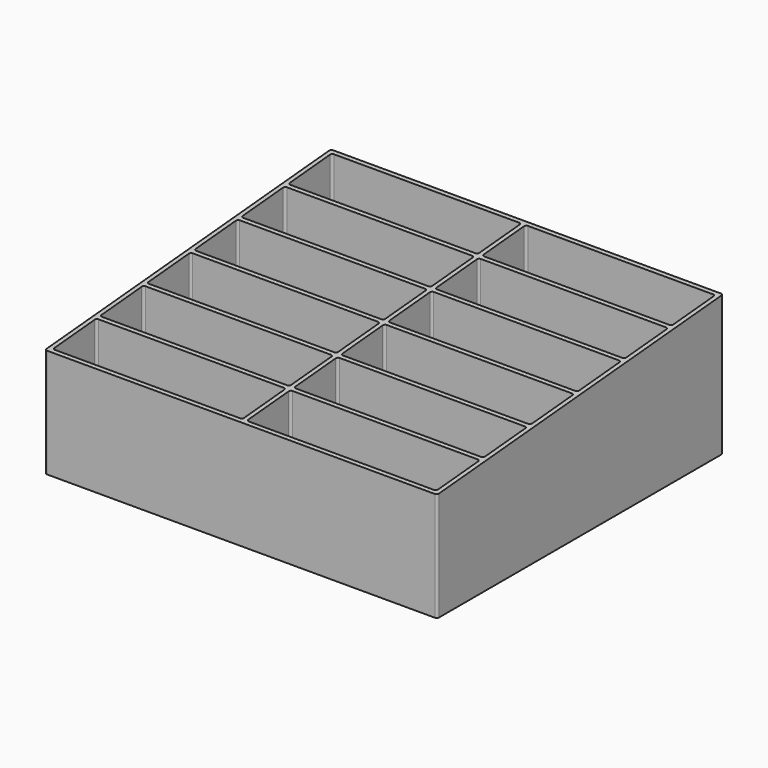
from build123d import *

# Parameters (mm, degrees)
PAD_DEPTH    = 65
POCKET_DEPTH = 180.001
SKETCH002_W  = 37
SKETCH002_H  = 164
PAD001_DEPTH = 3


with BuildPart() as part:
    # Sketch → Pad (new body)
    with BuildSketch(Plane.XY):
        with BuildLine():
            ThreePointArc((1, 164), (0.292893, 163.707107), (0, 163))
            Line((0, 1), (0, 163))
            ThreePointArc((0, 1), (0.292893, 0.292893), (1, 0))
            Line((179, 0), (1, 0))
            ThreePointArc((179, 0), (179.707107, 0.292893), (180, 1))
            Line((180, 1), (180, 163))
            ThreePointArc((180, 163), (179.707107, 163.707107), (179, 164))
            Line((179, 164), (1, 164))
        make_face()
        with BuildLine():
            ThreePointArc((3, 27), (2.292893, 26.707107), (2, 26))
            Line((2, 3), (2, 26))
            ThreePointArc((2, 3), (2.292893, 2.292893), (3, 2))
            Line((3, 2), (88, 2))
            ThreePointArc((88, 2), (88.707107, 2.292893), (89, 3))
            Line((89, 3), (89, 26))
            ThreePointArc((89, 26), (88.707107, 26.707107), (88, 27))
            Line((3, 27), (88, 27))
        make_face(mode=Mode.SUBTRACT)
        with BuildLine():
            ThreePointArc((2, 30), (2.292893, 29.292893), (3, 29))
            Line((3, 29), (88, 29))
            ThreePointArc((88, 29), (88.707107, 29.292893), (89, 30))
            Line((89, 53), (89, 30))
            ThreePointArc((89, 53), (88.707107, 53.707107), (88, 54))
            Line((3, 54), (88, 54))
            ThreePointArc((3, 54), (2.292893, 53.707107), (2, 53))
            Line((2, 53), (2, 30))
        make_face(mode=Mode.SUBTRACT)
        with BuildLine():
            ThreePointArc((2, 84), (2.292893, 83.292893), (3, 83))
            Line((3, 83), (88, 83))
            ThreePointArc((88, 83), (88.707107, 83.292893), (89, 84))
            Line((89, 107), (89, 84))
            ThreePointArc((89, 107), (88.707107, 107.707107), (88, 108))
            Line((3, 108), (88, 108))
            ThreePointArc((3, 108), (2.292893, 107.707107), (2, 107))
            Line((2, 107), (2, 84))
        make_face(mode=Mode.SUBTRACT)
        with BuildLine():
            ThreePointArc((3, 81), (2.292893, 80.707107), (2, 80))
            Line((2, 57), (2, 80))
            ThreePointArc((2, 57), (2.292893, 56.292893), (3, 56))
            Line((3, 56), (88, 56))
            ThreePointArc((88, 56), (88.707107, 56.292893), (89, 57))
            Line((89, 57), (89, 80))
            ThreePointArc((89, 80), (88.707107, 80.707107), (88, 81))
            Line((3, 81), (88, 81))
        make_face(mode=Mode.SUBTRACT)
        with BuildLine():
            ThreePointArc((3, 135), (2.292893, 134.707107), (2, 134))
            Line((2, 111), (2, 134))
            ThreePointArc((2, 111), (2.292893, 110.292893), (3, 110))
            Line((3, 110), (88, 110))
            ThreePointArc((88, 110), (88.707107, 110.292893), (89, 111))
            Line((89, 111), (89, 134))
            ThreePointArc((89, 134), (88.707107, 134.707107), (88, 135))
            Line((3, 135), (88, 135))
        make_face(mode=Mode.SUBTRACT)
        with BuildLine():
            ThreePointArc((2, 138), (2.292893, 137.292893), (3, 137))
            Line((3, 137), (88, 137))
            ThreePointArc((88, 137), (88.707107, 137.292893), (89, 138))
            Line((89, 161), (89, 138))
            ThreePointArc((89, 161), (88.707107, 161.707107), (88, 162))
            Line((3, 162), (88, 162))
            ThreePointArc((3, 162), (2.292893, 161.707107), (2, 161))
            Line((2, 161), (2, 138))
        make_face(mode=Mode.SUBTRACT)
        with BuildLine():
            ThreePointArc((178, 26), (177.707107, 26.707107), (177, 27))
            Line((177, 27), (92, 27))
            ThreePointArc((92, 27), (91.292893, 26.707107), (91, 26))
            Line((91, 3), (91, 26))
            ThreePointArc((91, 3), (91.292893, 2.292893), (92, 2))
            Line((177, 2), (92, 2))
            ThreePointArc((177, 2), (177.707107, 2.292893), (178, 3))
            Line((178, 3), (178, 26))
        make_face(mode=Mode.SUBTRACT)
        with BuildLine():
            ThreePointArc((177, 29), (177.707107, 29.292893), (178, 30))
            Line((178, 53), (178, 30))
            ThreePointArc((178, 53), (177.707107, 53.707107), (177, 54))
            Line((177, 54), (92, 54))
            ThreePointArc((92, 54), (91.292893, 53.707107), (91, 53))
            Line((91, 53), (91, 30))
            ThreePointArc((91, 30), (91.292893, 29.292893), (92, 29))
            Line((177, 29), (92, 29))
        make_face(mode=Mode.SUBTRACT)
        with BuildLine():
            ThreePointArc((177, 83), (177.707107, 83.292893), (178, 84))
            Line((178, 107), (178, 84))
            ThreePointArc((178, 107), (177.707107, 107.707107), (177, 108))
            Line((177, 108), (92, 108))
            ThreePointArc((92, 108), (91.292893, 107.707107), (91, 107))
            Line((91, 107), (91, 84))
            ThreePointArc((91, 84), (91.292893, 83.292893), (92, 83))
            Line((177, 83), (92, 83))
        make_face(mode=Mode.SUBTRACT)
        with BuildLine():
            ThreePointArc((178, 80), (177.707107, 80.707107), (177, 81))
            Line((177, 81), (92, 81))
            ThreePointArc((92, 81), (91.292893, 80.707107), (91, 80))
            Line((91, 57), (91, 80))
            ThreePointArc((91, 57), (91.292893, 56.292893), (92, 56))
            Line((177, 56), (92, 56))
            ThreePointArc((177, 56), (177.707107, 56.292893), (178, 57))
            Line((178, 57), (178, 80))
        make_face(mode=Mode.SUBTRACT)
        with BuildLine():
            ThreePointArc((178, 134), (177.707107, 134.707107), (177, 135))
            Line((177, 135), (92, 135))
            ThreePointArc((92, 135), (91.292893, 134.707107), (91, 134))
            Line((91, 111), (91, 134))
            ThreePointArc((91, 111), (91.292893, 110.292893), (92, 110))
            Line((177, 110), (92, 110))
            ThreePointArc((177, 110), (177.707107, 110.292893), (178, 111))
            Line((178, 111), (178, 134))
        make_face(mode=Mode.SUBTRACT)
        with BuildLine():
            ThreePointArc((177, 137), (177.707107, 137.292893), (178, 138))
            Line((178, 161), (178, 138))
            ThreePointArc((178, 161), (177.707107, 161.707107), (177, 162))
            Line((177, 162), (92, 162))
            ThreePointArc((92, 162), (91.292893, 161.707107), (91, 161))
            Line((91, 161), (91, 138))
            ThreePointArc((91, 138), (91.292893, 137.292893), (92, 137))
            Line((177, 137), (92, 137))
        make_face(mode=Mode.SUBTRACT)
    extrude(amount=PAD_DEPTH)

    # Sketch001 (on Face2 of Pad) → Pocket (cut, through all)
    with BuildSketch(Plane.YZ.offset(180)):
        Polygon((0, 50), (202.776713, 67.740664), (191.336548, 87.155762), (-16.35232, 87.155762), align=None)
    extrude(amount=-POCKET_DEPTH, mode=Mode.SUBTRACT)

    # Sketch002 (on Face2 of Pocket) → Pad001 (join)
    with BuildSketch(Plane(origin=(0, 0, 0), x_dir=(1, 0, 0), z_dir=(0, 0, -1))):
        with Locations((45.5, -82)):
            Rectangle(SKETCH002_W, SKETCH002_H)
        with Locations((134.5, -82)):
            Rectangle(SKETCH002_W, SKETCH002_H)
    extrude(amount=-PAD001_DEPTH)


solid = part.part
